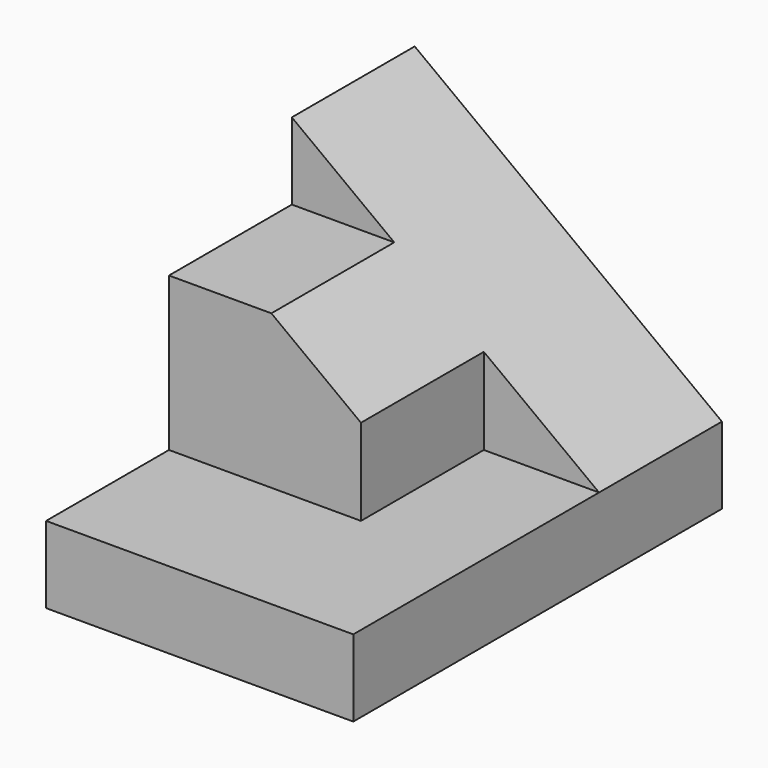
from build123d import *

# Parameters (mm, degrees)
F0_W     = 25.4
F0_H     = 25.4
F1_DEPTH = 38.1
F3_DEPTH = 38.101
F5_DEPTH = 25.4
F7_DEPTH = 12.7
F9_DEPTH = 12.7


with BuildPart() as f1:
    # F0 (on Front) → F1 (new body)
    with BuildSketch(Plane.XZ):
        with Locations((12.7, 12.7)):
            Rectangle(F0_W, F0_H)
    extrude(amount=-F1_DEPTH)

    # F2 (on face) → F3 (cut, through all)
    with BuildSketch(Plane.XZ):
        Polygon((25.4, 25.4), (0, 25.4), (25.4, 6.35), align=None)
    extrude(amount=-F3_DEPTH, mode=Mode.SUBTRACT)

    # F4 (on face) → F5 (cut)
    with BuildSketch(Plane.XZ):
        Polygon((8.466667, 19.05), (0, 25.4), (0, 19.05), align=None)
    extrude(amount=-F5_DEPTH, mode=Mode.SUBTRACT)

    # F6 (on face) → F7 (cut)
    with BuildSketch(Plane.XZ):
        Polygon((0, 19.05), (0, 6.35), (25.4, 6.35), (8.466667, 19.05), align=None)
    extrude(amount=-F7_DEPTH, mode=Mode.SUBTRACT)

    # F8 (on face) → F9 (cut)
    with BuildSketch(Plane.XZ.offset(-12.7)):
        Polygon((25.4, 6.35), (15.875, 13.49375), (15.875, 6.35), align=None)
    extrude(amount=-F9_DEPTH, mode=Mode.SUBTRACT)


solid = f1.part
